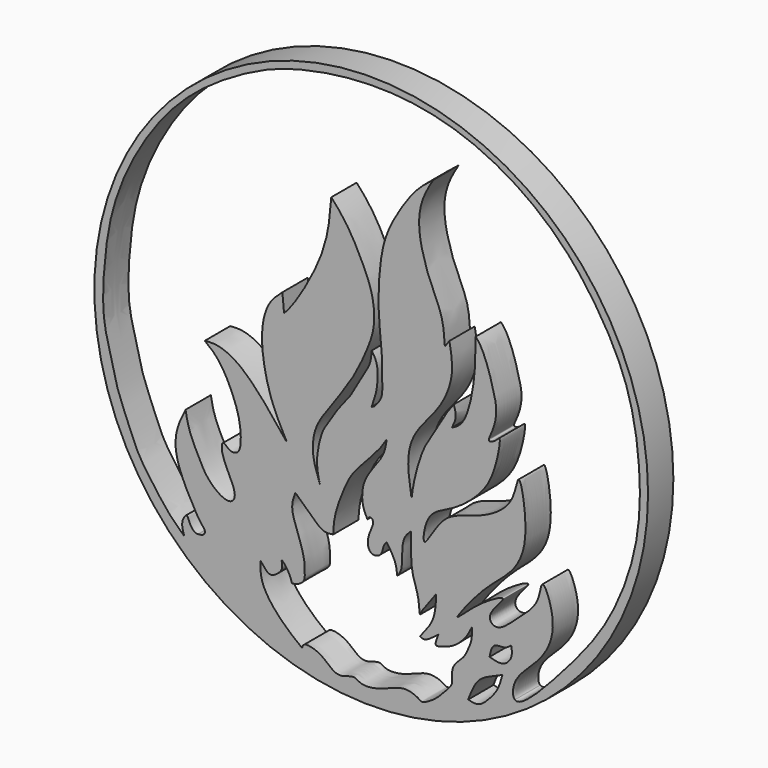
from build123d import *

# Parameters (mm, degrees)
F1_R     = 17.5
F2_DEPTH = 2


with BuildPart() as f2:
    # F1 (on face) → F2 (new body)
    with BuildSketch(Plane.XZ):
        Circle(F1_R)
        with BuildLine():
            add(Edge.make_bspline(
                [(-7.0102880709, -11.6859516129), (-7.0091595848, -12.1130985364), (-7.006625731, -13.0721956689), (-5.6426369133, -14.7206434331), (-4.7761347512, -15.3913125259), (-4.3674889021, -15.7076027244)],
                knots=[0, 0, 0, 0, 0.2978972668, 0.6688855723, 1, 1, 1, 1], degree=3))
            add(Edge.make_bspline(
                [(-7.0102880709, -11.6859516129), (-6.8683369206, -11.8660639473), (-6.631333398, -12.1667818888), (-6.3448857328, -12.334901957), (-5.8808599484, -12.0811680347), (-5.5362989429, -11.6656230499), (-5.7628608816, -11.0411622825), (-5.1814553378, -11.7353795962), (-5.0718511863, -12.1108556789), (-5.0149629824, -12.305740267)],
                knots=[0, 0, 0, 0, 0.1606268206, 0.2681846692, 0.4092846049, 0.5598480526, 0.6792478878, 0.8335189745, 1, 1, 1, 1], degree=3))
            add(Edge.make_bspline(
                [(-4.7910865396, -7.2069158778), (-4.8972440145, -7.4833741536), (-5.1370046971, -8.1077656533), (-4.605278359, -9.4454330779), (-4.1859592183, -10.7418923694), (-4.2204511112, -11.3906911681), (-4.1582354932, -12.014036321), (-4.7826495855, -12.3123432833), (-4.9510656408, -12.3075564136), (-5.0149629824, -12.305740267)],
                knots=[0, 0, 0, 0, 0.1553395081, 0.3508401699, 0.5424677074, 0.6739313609, 0.7952961169, 0.9223349941, 1, 1, 1, 1], degree=3))
            add(Edge.make_bspline(
                [(-2.4052350782, -8.7520098314), (-2.5999110664, -8.7830077037), (-3.0395845888, -8.8530160484), (-3.7595770885, -8.1648613646), (-4.421874757, -7.5497966536), (-4.7910865396, -7.2069158778)],
                knots=[0, 0, 0, 0, 0.2601554073, 0.5875580514, 1, 1, 1, 1], degree=3))
            add(Edge.make_bspline(
                [(0.976741896, -2.3584899027), (0.8642627157, -2.5429126129), (0.6001418554, -2.9759695106), (-0.2411606207, -3.9066211303), (-1.2769611602, -4.9853119278), (-1.7598550528, -6.0693598003), (-2.33667401, -7.5463097554), (-2.3833896566, -8.3678409851), (-2.4052350782, -8.7520098314)],
                knots=[0, 0, 0, 0, 0.1259114523, 0.2956621929, 0.4801782781, 0.645801681, 0.8343678796, 1, 1, 1, 1], degree=3))
            add(Edge.make_bspline(
                [(-0.2348348353, -7.2069158778), (-0.3438748118, -7.0051683903), (-0.5986841808, -6.5337160695), (-0.5988675119, -5.1451364983), (0.3479044995, -3.963377152), (0.8668727523, -3.1541401692), (0.9413964649, -2.6144544142), (0.976741896, -2.3584899027)],
                knots=[0, 0, 0, 0, 0.168421163, 0.3935739135, 0.6352466648, 0.8270031988, 1, 1, 1, 1], degree=3))
            add(Edge.make_bspline(
                [(-0.1533981558, -8.0834859982), (-0.0772515964, -7.8094233775), (0.1598376494, -7.3871654175), (0.1099867229, -7.1073092765), (-0.0961592875, -6.9754189798), (-0.1862078589, -7.1257408302), (-0.2348348353, -7.2069158778)],
                knots=[0.6050391039, 0.6050391039, 0.6050391039, 0.6050391039, 0.7579898378, 0.8439316937, 0.9157218185, 1, 1, 1, 1], degree=3))
            add(Edge.make_bspline(
                [(0.976741896, -8.0834859982), (0.9051729938, -8.1612121676), (0.7415375909, -8.3389255689), (0.7018588533, -8.9439129346), (0.1140909511, -9.1308211749), (-0.2324193194, -8.8074878521), (-0.2263958546, -8.3462154084), (-0.1533981558, -8.0834859982)],
                knots=[0, 0, 0, 0, 0.1001309564, 0.2289397891, 0.3509090795, 0.4584132852, 0.6050391039, 0.6050391039, 0.6050391039, 0.6050391039], degree=3))
            add(Edge.make_bspline(
                [(1.2671251316, -8.5229855031), (1.1703307197, -8.3764856681), (1.0735363079, -8.2299858332), (0.976741896, -8.0834859982)],
                knots=[0, 0, 0, 0, 0.5267658287, 0.5267658287, 0.5267658287, 0.5267658287], degree=3))
            add(Edge.make_bspline(
                [(1.6438384773, -9.7316075116), (1.6261465521, -9.5347024129), (1.5895399443, -9.1272833431), (1.3769636061, -8.7288543102), (1.2671251316, -8.5229855031)],
                knots=[0, 0, 0, 0, 0.4832986804, 1, 1, 1, 1], degree=3))
            add(Edge.make_bspline(
                [(2.5071399286, -6.9768908434), (2.3468598427, -7.1291847942), (1.9866004733, -7.4714938365), (1.9387337618, -8.5487570311), (1.9578448261, -9.3257731311), (1.7397349977, -9.6076670082), (1.6438384773, -9.7316075116)],
                knots=[0, 0, 0, 0, 0.2407558258, 0.5411435958, 0.7982542426, 1, 1, 1, 1], degree=3))
            add(Edge.make_bspline(
                [(4.1115740314, -9.9381254986), (3.9711919369, -10.1391781924), (3.6927969716, -10.5378904207), (3.2530776231, -10.9987551833), (3.043324794, -11.6819901801), (3.0433742675, -10.4980360365), (2.6429897581, -9.5965217298), (2.480794044, -8.381217745), (2.4980997753, -7.4587623272), (2.5071399286, -6.9768908434)],
                knots=[0, 0, 0, 0, 0.1311881939, 0.2601623292, 0.3525709078, 0.4874762175, 0.6497547317, 0.8170391718, 1, 1, 1, 1], degree=3))
            add(Edge.make_bspline(
                [(3.0904640444, -12.6240886748), (3.2732242166, -12.4028413539), (3.64026651, -11.9585042584), (4.0548924421, -11.1633049305), (4.0916239536, -10.3693488508), (4.1115740314, -9.9381254986)],
                knots=[0, 0, 0, 0, 0.3118134277, 0.626223505, 1, 1, 1, 1], degree=3))
            add(Edge.make_bspline(
                [(4.2447624728, -12.1579300612), (3.9077736762, -12.4226778798), (3.3962777837, -12.824523351), (3.1682576815, -12.6750757315), (3.0904640444, -12.6240886748)],
                knots=[0, 0, 0, 0, 0.6588299176, 1, 1, 1, 1], degree=3))
            add(Edge.make_bspline(
                [(6.386873778, -11.0036311671), (6.2959322445, -11.2034643562), (6.0898580968, -11.6562877532), (5.315210732, -12.5078325353), (4.4666031345, -12.7478385739), (3.9534800529, -12.8996369089), (4.1365420964, -12.4334969637), (4.2447624728, -12.1579300612)],
                knots=[0, 0, 0, 0, 0.1986105127, 0.4500528039, 0.6770755602, 0.8090974856, 1, 1, 1, 1], degree=3))
            add(Edge.make_bspline(
                [(-4.3674889021, -15.7076027244), (-4.3424149301, -15.6125196264), (-4.2766480666, -15.3631248695), (-3.4456968117, -15.5125838589), (-2.8312631986, -15.9534507719), (-2.4022640136, -16.3732714407), (-1.8261761235, -16.517847318), (-1.080973172, -16.1339841541), (-0.6814130511, -16.54709844), (0.2247459977, -16.4950076389), (1.0753563207, -16.1932550443), (2.1021528346, -15.7313399495), (2.9964301662, -16.0823096091), (3.1930765732, -16.3319503889), (4.0712505852, -15.8391921215), (4.6356412368, -15.2138985429), (5.0786283756, -14.7588007636), (5.1425162642, -14.4015442238), (5.0752125416, -13.8695671836), (5.296280695, -13.3898863856), (5.8908183749, -12.9135520352), (6.127933368, -12.3438732057), (6.367709958, -11.837975137), (6.3800474458, -11.300832303), (6.386873778, -11.0036311671)],
                knots=[0, 0, 0, 0, 0.0295839699, 0.0775961988, 0.1282557406, 0.1712247892, 0.2134865497, 0.2621501008, 0.3014301105, 0.353201762, 0.4081370318, 0.4678768674, 0.5205294403, 0.5485619816, 0.6016452353, 0.6563088778, 0.6997927678, 0.732862495, 0.7732728419, 0.8137261192, 0.8625718251, 0.9065936205, 0.9483182492, 1, 1, 1, 1], degree=3))
        make_face(mode=Mode.SUBTRACT)
        with BuildLine():
            add(Edge.make_bspline(
                [(8.2901753485, -13.0883269012), (7.8303781619, -13.270706163), (7.0007005392, -13.5997990692), (6.4926861953, -14.198773702), (6.1254554442, -15.1418513371), (6.131112434, -15.158800456), (6.1315963976, -15.1602504775)],
                knots=[0, 0, 0, 0, 0.3713646072, 0.6701061107, 0.9717771038, 1, 1, 1, 1], degree=3))
            add(Edge.make_bspline(
                [(8.2901753485, -13.0883269012), (8.2090369672, -13.393986607), (8.0462531212, -14.0072162734), (7.439724031, -14.72618498), (6.8067285812, -15.3338549258), (6.3478200496, -15.2158505344), (6.1315963976, -15.1602504775)],
                knots=[0, 0, 0, 0, 0.2661694238, 0.5340023033, 0.7804361505, 1, 1, 1, 1], degree=3))
        make_face(mode=Mode.SUBTRACT)
        with BuildLine():
            add(Edge.make_bspline(
                [(8.8473977521, -11.2596973777), (8.7268201875, -11.365288344), (8.4655681903, -11.5940693029), (7.6480258261, -11.4683466943), (7.5387258902, -12.0458812344), (7.4818115681, -12.3466132209)],
                knots=[0, 0, 0, 0, 0.2911885006, 0.6309098843, 1, 1, 1, 1], degree=3))
            add(Edge.make_bspline(
                [(8.8473977521, -11.2596973777), (8.8848725528, -11.4745475922), (8.9621903929, -11.9178255883), (8.3854484082, -12.6061858328), (7.7926200085, -12.435893953), (7.4818115681, -12.3466132209)],
                knots=[0, 0, 0, 0, 0.3091265062, 0.6377884169, 1, 1, 1, 1], degree=3))
        make_face(mode=Mode.SUBTRACT)
        with BuildLine():
            add(Edge.make_bspline(
                [(-10.957563296, -11.5144643933), (-11.0185395319, -11.5098348239), (-11.1815818238, -11.4974559753), (-11.5250688018, -11.0680672106), (-11.6117750027, -10.565058931), (-11.9231637004, -10.9426328607), (-11.9796213127, -11.4118838681), (-11.8667841329, -11.7464099318), (-11.8092512712, -11.9169764221)],
                knots=[0, 0, 0, 0, 0.1181694028, 0.3159691634, 0.4750812946, 0.6219742651, 0.8072541131, 1, 1, 1, 1], degree=3))
            add(Edge.make_bspline(
                [(-11.8092512712, -11.9169764221), (-12.1549983622, -11.5964411217), (-12.8844715157, -10.9201609664), (-13.9276718478, -9.4586991022), (-14.7854970494, -8.237686291), (-15.2831318712, -6.912436203), (-16.1097528674, -5.017016934), (-16.3438580063, -3.709154495), (-17.0325399589, -1.5237882691), (-16.9086727014, 1.4957087585), (-16.4682977733, 5.026414959), (-14.6713430221, 9.0889536683), (-11.8854571721, 12.6302271025), (-8.596712312, 14.828446738), (-5.5981349862, 16.2935780696), (-1.4423573491, 17.1027997122), (2.5629841536, 17.0530571735), (6.4379503498, 16.0585917185), (9.9778511779, 14.0684238287), (12.6176628559, 11.6460488301), (14.7005753153, 8.7653202709), (16.3780021247, 5.4429836851), (17.0752547076, 1.221175264), (16.9568912847, -3.2959752098), (15.0846862944, -8.1451314834), (13.0788913957, -10.5673031128), (11.6463465484, -12.1635708977), (11.4792458855, -12.3466132209)],
                knots=[0, 0, 0, 0, 0.014360499, 0.0302984429, 0.0447017139, 0.0589520468, 0.0758267503, 0.0896324235, 0.1072100344, 0.1278616977, 0.1502703186, 0.1752392977, 0.2004848709, 0.2238619184, 0.2455031148, 0.2697509584, 0.2935782442, 0.3172291069, 0.3410563946, 0.3634702547, 0.3857180919, 0.4085166897, 0.4329094647, 0.4582000523, 0.484691254, 0.510960692, 0.5143964161, 0.5143964161, 0.5143964161, 0.5143964161], degree=3))
            add(Edge.make_bspline(
                [(11.4792458855, -12.3466132209), (10.5285760094, -13.3879784654), (9.4723590493, -14.4375875421), (9.1033561881, -14.227402362), (9.0846093372, -14.2119066677)],
                knots=[0.5143964161, 0.5143964161, 0.5143964161, 0.5143964161, 0.5339429534, 0.535117429, 0.535117429, 0.535117429, 0.535117429], degree=3))
            add(Edge.make_bspline(
                [(9.0846093372, -14.2119066677), (8.9130180721, -14.070073471), (8.9400383184, -12.884569727), (10.7991881337, -11.5870983256), (11.8663498252, -9.3273521656), (10.7394220658, -6.5054464563), (10.6725883953, -8.4608877337), (9.2593844355, -9.5616542786), (7.975342268, -10.8573889184), (7.1454925801, -10.0145614649), (9.0641338058, -8.3338864491), (6.772000212, -9.4953285112), (4.6804156559, -11.6734324806), (7.0816408098, -8.5899619594), (8.5627573148, -7.5629713395), (10.1731859829, -5.5535125106), (9.2941042838, -0.6788491872), (9.0885709012, -3.6966677467), (6.4221849947, -4.9709773736), (4.470102002, -5.2587426489), (3.1275256887, -8.1944218037), (3.4468718251, -5.4737832148), (5.1068896365, -4.9975773919), (6.9168191097, -3.5627816397), (7.8356939111, -2.0744554544), (8.2689535275, 0.3346826515), (7.8737379383, -0.2430556319), (7.2665234848, -0.4696215414), (7.7013834097, 0.2908119173), (7.9408400411, 1.2226544398), (7.8698490426, 2.2396205948), (7.1268790849, 4.5737826049), (6.7430068122, 5.0250258692), (6.6038439982, 5.1886122674)],
                knots=[0.535117429, 0.535117429, 0.535117429, 0.535117429, 0.5458674877, 0.5639534973, 0.5831247575, 0.5996198754, 0.6114623645, 0.6282809069, 0.6432430208, 0.6526610092, 0.6669508405, 0.682120014, 0.6983869416, 0.7168468574, 0.7342052498, 0.7534126929, 0.7749601351, 0.7890783865, 0.8092872578, 0.8267647558, 0.8430771896, 0.8571603648, 0.8728959348, 0.8904902644, 0.9074388141, 0.9233772673, 0.9301143006, 0.937827978, 0.9468664098, 0.9587490352, 0.9710486216, 0.9895044379, 1, 1, 1, 1], degree=3))
            add(Edge.make_bspline(
                [(6.6038439982, 5.1886122674), (6.5980574773, 4.3513121936), (6.5866025544, 2.6938036567), (5.9904716411, 0.101049419), (5.3411770968, -0.2407702227), (5.0991540775, -0.3681826929)],
                knots=[0, 0, 0, 0, 0.390364012, 0.7727596146, 1, 1, 1, 1], degree=3))
            add(Edge.make_bspline(
                [(5.0991540775, -0.3681826929), (5.2115693447, -0.138855058), (5.4309070517, 0.30859482), (5.2877373634, 0.7498282804), (5.2179452032, 0.9649201529)],
                knots=[0, 0, 0, 0, 0.5125213933, 1, 1, 1, 1], degree=3))
            add(Edge.make_bspline(
                [(5.2179452032, 0.9649201529), (5.0827163425, 0.7924952996), (4.7608940323, 0.3821526823), (4.089595188, -0.859297948), (3.246897775, -2.0331038351), (2.6836674294, -4.0779451469), (2.5880217911, -4.8299184303), (2.5481970515, -5.1430235617)],
                knots=[0, 0, 0, 0, 0.1480678819, 0.352377056, 0.5682121512, 0.8202130393, 1, 1, 1, 1], degree=3))
            add(Edge.make_bspline(
                [(2.5481970515, -5.1430235617), (2.4728703232, -4.6830592931), (2.3238020239, -3.7728101322), (2.3312214246, -2.3889137405), (2.9249283763, -1.0350421635), (4.5165103681, 0.5769870371), (5.271251215, 2.6478916618), (5.0473267396, 3.8407345624), (4.9411132932, 4.4065322727)],
                knots=[0, 0, 0, 0, 0.1511006897, 0.2990216532, 0.4518752762, 0.6442174437, 0.8312426929, 1, 1, 1, 1], degree=3))
            add(Edge.make_bspline(
                [(4.9411132932, 4.4065322727), (4.8461055073, 4.2737124798), (4.7510977214, 4.1408926869), (4.6560899355, 4.0080728941)],
                knots=[0, 0, 0, 0, 0.4899063083, 0.4899063083, 0.4899063083, 0.4899063083], degree=3))
            add(Edge.make_bspline(
                [(4.6560899355, 4.0080728941), (4.6220872196, 4.5445223471), (4.5521332763, 5.6481622689), (3.7036132105, 7.26415122), (3.1581075393, 8.9806327322), (2.9341318993, 10.5784411672), (3.2713406393, 11.9604292186), (3.7172304663, 12.6909757359), (3.9351927117, 13.0480853841)],
                knots=[0, 0, 0, 0, 0.1689635435, 0.3476094735, 0.5267511085, 0.694552213, 0.8506893823, 1, 1, 1, 1], degree=3))
            add(Edge.make_bspline(
                [(3.9351927117, 13.0480853841), (3.5581301764, 12.7599677027), (2.6989052249, 12.1034243508), (1.3158035915, 9.9510829565), (0.7016337012, 8.3829194827), (0.4778555341, 6.474472787), (0.4155994456, 4.4913453365), (0.6700753607, 2.7723927747), (0.6889527679, 1.4240336297), (0.7250764311, 0.3342230682), (0.6467114378, -0.2593003737), (0.346739845, -0.6082073995), (0.1899698109, -0.7905518869)],
                knots=[0, 0, 0, 0, 0.1031273802, 0.2349997943, 0.3439595754, 0.4578765248, 0.5759051225, 0.6854854587, 0.7828197975, 0.8686472133, 0.9313528969, 1, 1, 1, 1], degree=3))
            add(Edge.make_bspline(
                [(0.1899698109, -0.7905518869), (0.1369497125, -0.8116560445), (0.0839296141, -0.8327602021), (0.0309095158, -0.8538643597)],
                knots=[0, 0, 0, 0, 0.1711976831, 0.1711976831, 0.1711976831, 0.1711976831], degree=3))
            add(Edge.make_bspline(
                [(0.0309095158, -0.8538643597), (0.1533403288, -0.5120156778), (0.4105579226, 0.2061817538), (0.4519564844, 1.6488346576), (0.1550759001, 2.0921053296), (0.0309095158, 2.277497435)],
                knots=[0, 0, 0, 0, 0.3457350118, 0.7263623078, 1, 1, 1, 1], degree=3))
            add(Edge.make_bspline(
                [(0.0309095158, 2.277497435), (0.0140043847, 2.0207707596), (-0.0217164142, 1.478303391), (-0.5655328644, 0.6912400687), (-1.2325566247, -0.6704111418), (-2.051507533, -1.5282687026), (-2.7523090081, -2.7126211927), (-3.1604735453, -3.2723692417), (-3.5477707747, -5.0115085369), (-3.3400632981, -5.8457371021), (-3.2434205059, -6.2338896096)],
                knots=[0, 0, 0, 0, 0.101542615, 0.2145610893, 0.3566471752, 0.4866246178, 0.6190707932, 0.7179023484, 0.8687447117, 1, 1, 1, 1], degree=3))
            add(Edge.make_bspline(
                [(-3.2434205059, -6.2338896096), (-3.4201559643, -5.7407608164), (-3.7486167379, -4.824286746), (-3.66527612, -3.6549878504), (-3.3748782863, -2.7876007065), (-2.4537753789, -1.4796387155), (-1.161825673, 0.284035005), (-0.4003167218, 1.8982260797), (0.2446095537, 3.4698545785), (0.1783640527, 4.9546085678), (-0.1793278132, 6.299464589), (-1.4356208985, 8.7783316029), (-2.1945685627, 9.6129963622), (-2.5244334247, 9.9757704884)],
                knots=[0, 0, 0, 0, 0.0884321583, 0.1643501275, 0.2316267877, 0.3218670572, 0.4290713622, 0.5259183561, 0.6186641576, 0.7036842582, 0.7894396621, 0.9084832063, 1, 1, 1, 1], degree=3))
            add(Edge.make_bspline(
                [(-2.5244334247, 9.9757704884), (-2.6050066913, 8.9471845733), (-2.7730577568, 6.8018705455), (-4.7701587446, 3.3634283361), (-5.3220669854, 2.7534577844), (-5.5101341568, 2.5456054136)],
                knots=[0, 0, 0, 0, 0.3778032571, 0.7879814562, 1, 1, 1, 1], degree=3))
            add(Edge.make_bspline(
                [(-5.5101341568, 2.5456054136), (-5.544656422, 2.9250304991), (-5.5791786872, 3.3044555845), (-5.6137009524, 3.68388067)],
                knots=[0, 0, 0, 0, 1.1429770953, 1.1429770953, 1.1429770953, 1.1429770953], degree=3))
            add(Edge.make_bspline(
                [(-5.6137009524, 3.68388067), (-5.9167344098, 3.4191905634), (-6.5688964107, 2.8495477555), (-6.982146175, 1.1919017045), (-6.8329782118, -0.6275284982), (-6.3341656975, -2.6669429616), (-5.6580911004, -3.9461058888), (-5.3160479292, -4.5932666399)],
                knots=[0, 0, 0, 0, 0.1660210328, 0.3572958902, 0.5610441861, 0.7779211951, 1, 1, 1, 1], degree=3))
            add(Edge.make_bspline(
                [(-5.3160479292, -4.5932666399), (-5.7814677689, -3.9982503022), (-6.7209778851, -2.7971329003), (-8.3785356155, -1.0523361485), (-9.7325761117, -0.5401496135), (-10.2838245257, -0.5879396832), (-10.5176083744, -0.6082073995)],
                knots=[0, 0, 0, 0, 0.2984189569, 0.6023972444, 0.8313771068, 1, 1, 1, 1], degree=3))
            add(Edge.make_bspline(
                [(-10.5176083744, -0.6082073995), (-10.2081387421, -0.8502445459), (-9.4881377831, -1.4133594992), (-8.4956234068, -3.4960145354), (-8.2136903275, -4.8586753159), (-8.2447526772, -6.1367654977), (-8.7823503512, -6.2868281282), (-9.0828328592, -6.1097885615), (-9.2430976439, -5.9122194999), (-9.4597389601, -5.9107913668), (-9.4490026883, -6.2092068258), (-9.4419959933, -6.4039584249)],
                knots=[0, 0, 0, 0, 0.1473626444, 0.342848649, 0.503391508, 0.6407768546, 0.7245565284, 0.7997691131, 0.8645730194, 0.911617779, 1, 1, 1, 1], degree=3))
            add(Edge.make_bspline(
                [(-9.4419959933, -6.4039584249), (-9.3671734827, -6.6504901678), (-9.2037447292, -7.1889694988), (-8.6355671461, -8.1776404572), (-8.5817105632, -8.8663645535), (-9.1431781233, -9.2002001397), (-10.3562191524, -8.3331176021), (-10.9364298012, -7.1425391616), (-11.5398794848, -5.923751315), (-11.6715757325, -5.1883439193), (-11.7340246215, -4.8396219499)],
                knots=[0, 0, 0, 0, 0.1138193622, 0.2486064199, 0.3460511125, 0.4306514571, 0.5757589255, 0.7241507512, 0.8691953687, 1, 1, 1, 1], degree=3))
            add(Edge.make_bspline(
                [(-11.7340246215, -4.8396219499), (-11.9092336917, -5.1821563219), (-12.2737388832, -5.8947653022), (-12.4845221626, -7.3193898133), (-11.8024651889, -9.0845129003), (-10.8684158756, -10.7650415495), (-10.4601966117, -11.1583891987), (-10.5733590057, -11.4721285904), (-10.8199724533, -11.4993031394), (-10.957563296, -11.5144643933)],
                knots=[0, 0, 0, 0, 0.158270433, 0.3292660272, 0.5342233025, 0.7379633602, 0.8400890504, 0.9107823092, 1, 1, 1, 1], degree=3))
        make_face(mode=Mode.SUBTRACT)
    extrude(amount=F2_DEPTH)


solid = f2.part
